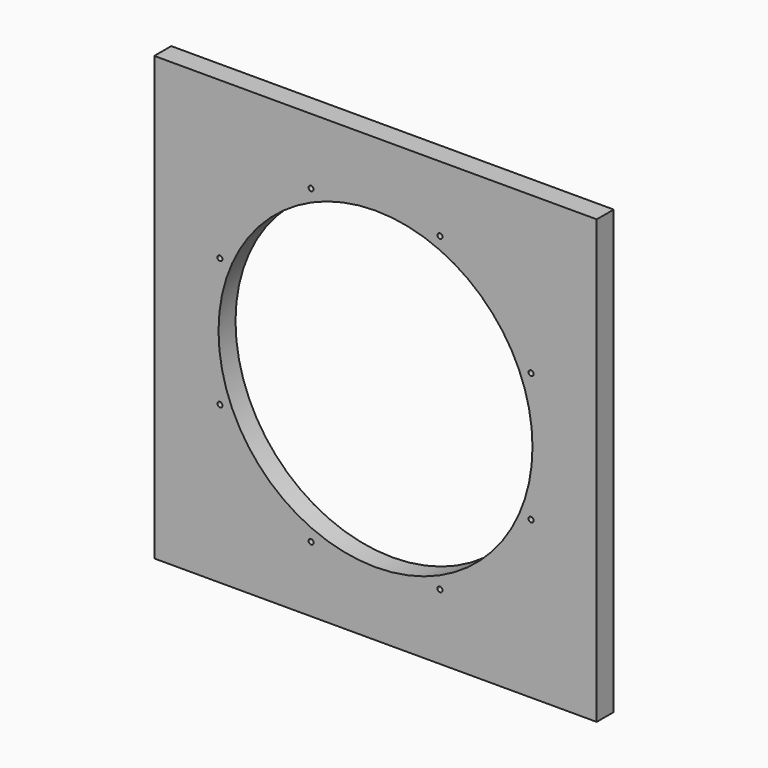
from build123d import *

# Parameters (mm, degrees)
F0_W     = 396
F0_H     = 396
F1_DEPTH = 19
F2_R     = 140.5
F3_DEPTH = 25.4
F4_R     = 2.25
F5_DEPTH = 25.4


with BuildPart() as f1:
    # F0 (on Front) → F1 (new body)
    with BuildSketch(Plane.XZ):
        Rectangle(F0_W, F0_H)
    extrude(amount=F1_DEPTH)

    # F2 (on face) → F3 (cut)
    with BuildSketch(Plane.XZ.offset(19)):
        Circle(F2_R)
    extrude(amount=-F3_DEPTH, mode=Mode.SUBTRACT)

    # F4 (on face) → F5 (cut)
    with BuildSketch(Plane.XZ.offset(19)):
        with Locations((57.670393, 139.228646)):
            Circle(F4_R)
        with Locations((139.228646, 57.670393)):
            Circle(F4_R)
        with Locations((139.228646, -57.670393)):
            Circle(F4_R)
        with Locations((57.670393, -139.228646)):
            Circle(F4_R)
        with Locations((-57.670393, -139.228646)):
            Circle(F4_R)
        with Locations((-139.228646, -57.670393)):
            Circle(F4_R)
        with Locations((-139.228646, 57.670393)):
            Circle(F4_R)
        with Locations((-57.670393, 139.228646)):
            Circle(F4_R)
    extrude(amount=-F5_DEPTH, mode=Mode.SUBTRACT)


solid = f1.part
